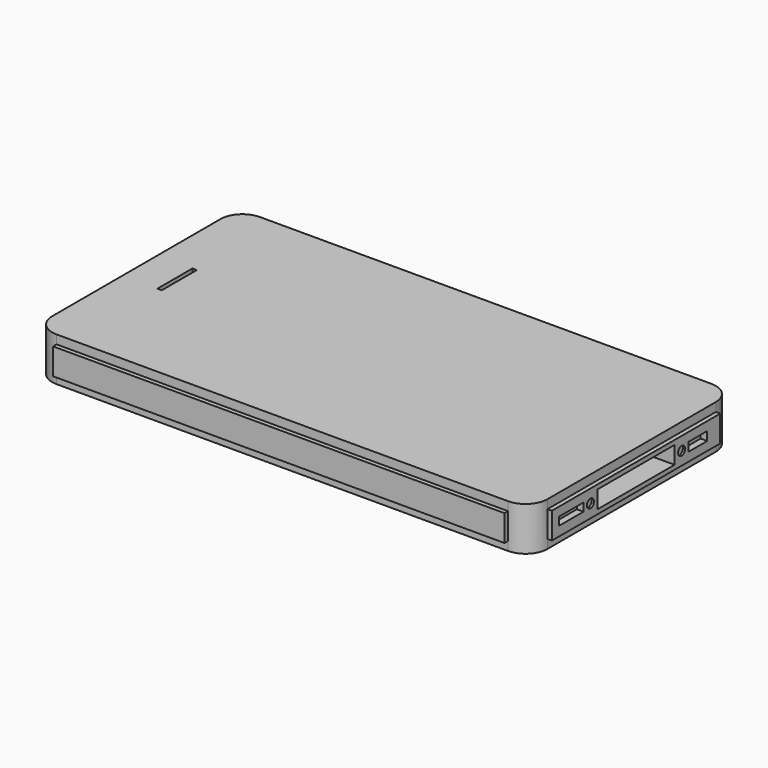
from build123d import *

# Parameters (mm, degrees)
F0_W       = 113
F0_H       = 58
F1_DEPTH   = 10
F2_R       = 5
F3_R       = 5
F4_R       = 5
F5_R       = 5
F6_W       = 1
F6_H       = 10
F11_DEPTH  = 1
F10_W      = 48
F10_H      = 6
F12_DEPTH  = 1
F7_W       = 103
F7_H       = 6
F13_DEPTH  = 1
F8_W       = 48
F8_H       = 6
F14_DEPTH  = 1
F9_W       = 103
F9_H       = 6
F15_DEPTH  = 1
F16_W      = 22
F16_H      = 4
F17_DEPTH  = 5
F18_R      = 1
F19_DEPTH  = 0.5
F19_FACE_R = 1
F20_DEPTH  = 0.5
F21_DEPTH  = 0.5
F22_R      = 1
F23_DEPTH  = 0.5
F24_W      = 5.293664
F24_H      = 2
F25_DEPTH  = 1.5
F26_W      = 7
F26_H      = 1.853713
F28_DEPTH  = 1.5
F31_DEPTH  = 0.5
F32_R      = 2.5
F33_DEPTH  = 5
F33_FACE_R = 2.5
F34_DEPTH  = 5


with BuildPart() as f1:
    # F0 (on Top) → F1 (new body)
    with BuildSketch(Plane.XY):
        Rectangle(F0_W, F0_H)
    extrude(amount=F1_DEPTH)

    # F2
    f2_edges = [f1.edges().sort_by_distance(p)[0] for p in [
        (56.5, 29, 5),
    ]]
    fillet(f2_edges, radius=F2_R)

    # F3
    f3_edges = [f1.edges().sort_by_distance(p)[0] for p in [
        (56.5, -29, 5),
    ]]
    fillet(f3_edges, radius=F3_R)

    # F4
    f4_edges = [f1.edges().sort_by_distance(p)[0] for p in [
        (-56.5, -29, 5),
    ]]
    fillet(f4_edges, radius=F4_R)

    # F5
    f5_edges = [f1.edges().sort_by_distance(p)[0] for p in [
        (-56.5, 29, 5),
    ]]
    fillet(f5_edges, radius=F5_R)

    # F6 (on face) → F11 (cut)
    with BuildSketch(Plane.XY.offset(10)):
        with Locations((-48, 1)):
            Rectangle(F6_W, F6_H)
    extrude(amount=-F11_DEPTH, mode=Mode.SUBTRACT)

    # F10 (on face) → F12 (join)
    with BuildSketch(Plane(origin=(-56.5, 0, 0), x_dir=(0, -1, 0), z_dir=(-1, 0, 0))):
        with Locations((0, 5)):
            Rectangle(F10_W, F10_H)
    extrude(amount=F12_DEPTH)

    # F7 (on face) → F13 (join)
    with BuildSketch(Plane(origin=(0, 29, 0), x_dir=(-1, 0, 0), z_dir=(0, 1, 0))):
        with Locations((0, 5)):
            Rectangle(F7_W, F7_H)
    extrude(amount=F13_DEPTH)

    # F8 (on face) → F14 (join)
    with BuildSketch(Plane.YZ.offset(56.5)):
        with Locations((0, 5)):
            Rectangle(F8_W, F8_H)
    extrude(amount=F14_DEPTH)

    # F9 (on face) → F15 (join)
    with BuildSketch(Plane.XZ.offset(29)):
        with Locations((0, 5)):
            Rectangle(F9_W, F9_H)
    extrude(amount=F15_DEPTH)

    # F16 (on face) → F17 (cut)
    with BuildSketch(Plane.YZ.offset(57.5)):
        with Locations((0, 5)):
            Rectangle(F16_W, F16_H)
    extrude(amount=-F17_DEPTH, mode=Mode.SUBTRACT)

    # F18 (on face) → F19 (join)
    with BuildSketch(Plane.YZ.offset(57.5)):
        with Locations((13, 5)):
            Circle(F18_R)
    extrude(amount=F19_DEPTH)

    # F19_face (on face) → F20 (cut)
    with BuildSketch(Plane(origin=(58, 13, 5), x_dir=(0, 1, 0), z_dir=(1, 0, 0))):
        Circle(F19_FACE_R)
    extrude(amount=-F20_DEPTH, mode=Mode.SUBTRACT)

    # F18 (on face) → F21 (cut)
    with BuildSketch(Plane.YZ.offset(57.5)):
        with Locations((13, 5)):
            Circle(F18_R)
    extrude(amount=-F21_DEPTH, mode=Mode.SUBTRACT)

    # F22 (on face) → F23 (cut)
    with BuildSketch(Plane.YZ.offset(57.5)):
        with Locations((-13, 5)):
            Circle(F22_R)
    extrude(amount=-F23_DEPTH, mode=Mode.SUBTRACT)

    # F24 (on face) → F25 (cut)
    with BuildSketch(Plane.YZ.offset(57.5)):
        with Locations((17.646832, 5)):
            Rectangle(F24_W, F24_H)
    extrude(amount=-F25_DEPTH, mode=Mode.SUBTRACT)

    # F26 (on face) → F28 (cut)
    with BuildSketch(Plane.YZ.offset(57.5)):
        with Locations((-18.5, 5.073144)):
            Rectangle(F26_W, F26_H)
    extrude(amount=-F28_DEPTH, mode=Mode.SUBTRACT)

    # F30 (on face) → F31 (join)
    with BuildSketch(Plane(origin=(-57.5, 0, 0), x_dir=(0, -1, 0), z_dir=(-1, 0, 0))):
        with BuildLine():
            Line((-19, 4), (-11, 4))
            ThreePointArc((-11, 4), (-10.292893, 4.292893), (-10, 5))
            ThreePointArc((-10, 5), (-10.292893, 5.707107), (-11, 6))
            Line((-11, 6), (-19, 6))
            ThreePointArc((-19, 6), (-19.707107, 5.707107), (-20, 5))
            ThreePointArc((-20, 5), (-19.707107, 4.292893), (-19, 4))
        make_face()
    extrude(amount=F31_DEPTH)

    # F32 (on face) → F33 (join)
    with BuildSketch(Plane(origin=(-57.5, 0, 0), x_dir=(0, -1, 0), z_dir=(-1, 0, 0))):
        with Locations((16.500002, 5.005926)):
            Circle(F32_R)
    extrude(amount=F33_DEPTH)

    # F33_face (on face) → F34 (cut)
    with BuildSketch(Plane(origin=(-62.5, -16.500002, 5.005926), x_dir=(0, -1, 0), z_dir=(-1, 0, 0))):
        Circle(F33_FACE_R)
    extrude(amount=-F34_DEPTH, mode=Mode.SUBTRACT)


solid = f1.part
